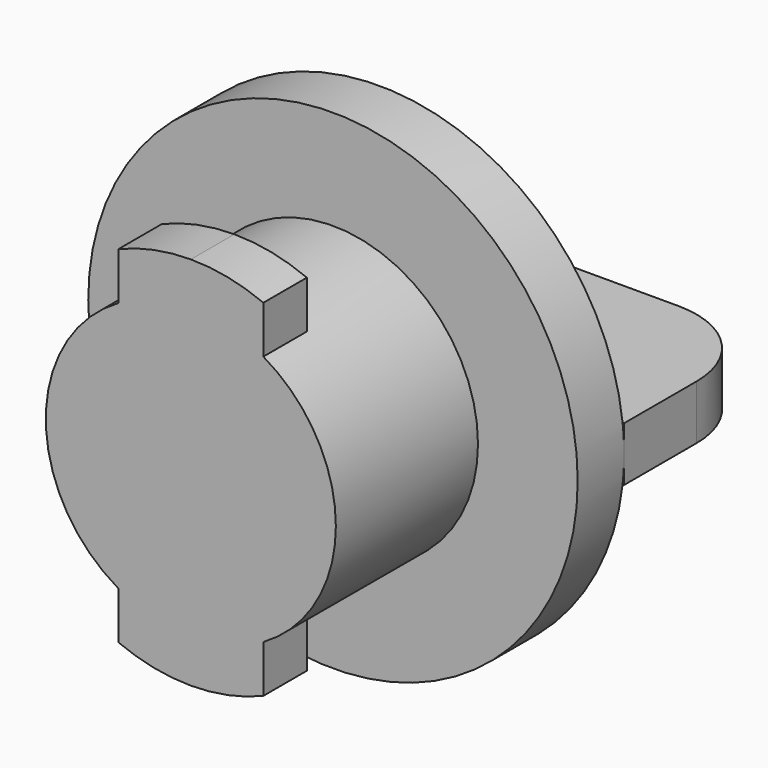
from build123d import *

# Parameters (mm, degrees)
F0_R      = 8
F1_DEPTH  = 13
F0_R_2    = 13.5
F2_DEPTH  = 3.2
F5_DEPTH  = 3
F6_W      = 27
F6_H      = 3
F7_DEPTH  = 10
F8_R      = 5
F9_R      = 5
F11_R     = 2.2611547592
F12_DEPTH = 3


with BuildPart() as f1:
    # F0 (on Front) → F1 (new body)
    with BuildSketch(Plane.XZ):
        Circle(F0_R)
    extrude(amount=F1_DEPTH)

    # F0 (on Front) → F2 (join)
    with BuildSketch(Plane.XZ):
        Circle(F0_R_2)
        Circle(F0_R, mode=Mode.SUBTRACT)
    extrude(amount=F2_DEPTH)

    # F4 (on offset) → F5 (join)
    with BuildSketch(Plane.XZ.offset(10)):
        with BuildLine():
            ThreePointArc((-4, -9.5458105994), (-2.040019644, -10.1469611141), (0, -10.35))
            ThreePointArc((0, -10.35), (2.040019644, -10.1469611141), (4, -9.5458105994))
            Line((4, -9.5458105994), (4, 9.5458105994))
            ThreePointArc((4, 9.5458105994), (2.040019644, 10.1469611141), (0, 10.35))
            ThreePointArc((0, 10.35), (-2.040019644, 10.1469611141), (-4, 9.5458105994))
            Line((-4, 9.5458105994), (-4, -9.5458105994))
        make_face()
    extrude(amount=F5_DEPTH)

    # F6 (on Front) → F7 (join)
    with BuildSketch(Plane.XZ):
        Rectangle(F6_W, F6_H)
    extrude(amount=-F7_DEPTH)

    # F8
    f8_edges = [f1.edges().sort_by_distance(p)[0] for p in [
        (-13.5, 10, 0),
    ]]
    fillet(f8_edges, radius=F8_R)

    # F9
    f9_edges = [f1.edges().sort_by_distance(p)[0] for p in [
        (13.5, 10, 0),
    ]]
    fillet(f9_edges, radius=F9_R)

    # F11 (on face) → F12 (cut, through all)
    with BuildSketch(Plane.XY.offset(1.5)):
        with Locations((0, 5)):
            Circle(F11_R)
    extrude(amount=-F12_DEPTH, mode=Mode.SUBTRACT)


solid = f1.part
